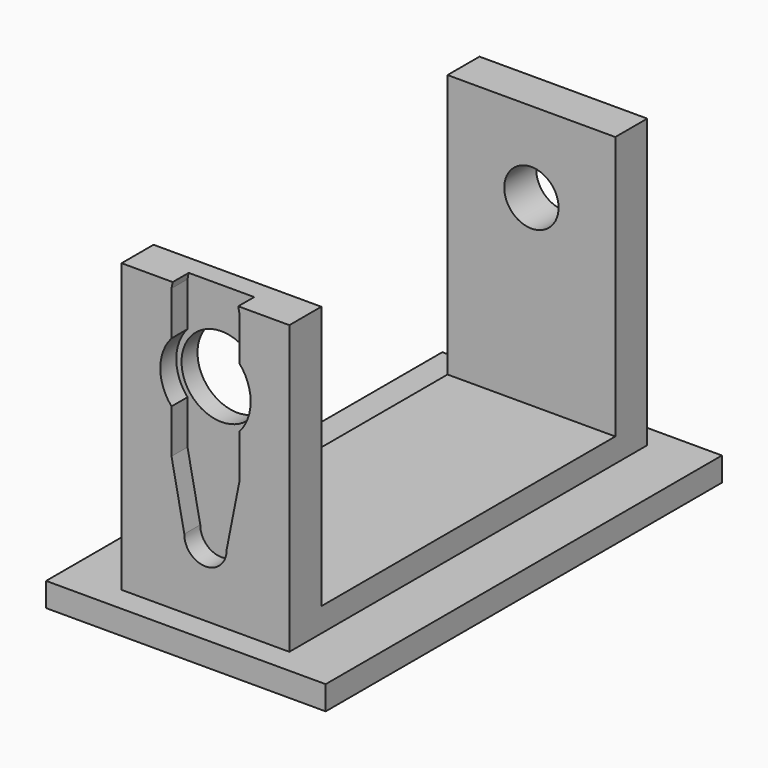
from build123d import *

# Parameters (mm, degrees)
CYLINDER053_R          = 3.4
CYLINDER053_DEPTH      = 44
CYLINDER052_R          = 5
CYLINDER052_DEPTH      = 9
PAD019_DEPTH           = 5
PAD018_DEPTH           = 21
CUT028_PLACEMENT_ANGLE = 90
SKETCH020_W            = 35
SKETCH020_H            = 62
PAD020_DEPTH           = 3


with BuildPart() as cylinder053:
    # Cylinder053 → Cylinder053 (new body)
    with BuildSketch(Plane(origin=(10.5, -10.1, -9), x_dir=(1, 0, 0), z_dir=(0, 0, 1))):
        Circle(CYLINDER053_R)
    extrude(amount=CYLINDER053_DEPTH)


with BuildPart() as cylinder052:
    # Cylinder052 → Cylinder052 (new body)
    with BuildSketch(Plane(origin=(10.5, -10.1, 44), x_dir=(1, 0, 0), z_dir=(0, 0, 1))):
        Circle(CYLINDER052_R)
    extrude(amount=CYLINDER052_DEPTH)


with BuildPart() as fusion043:
    # Sketch019 → Pad019 (new body)
    with BuildSketch(Plane.XY):
        with BuildLine():
            Line((-4.25, 3.75), (-4.25, 9.25))
            Line((-4.25, 9.25), (-2.65, 17.292388))
            ThreePointArc((2.65, 17.292388), (0, 20), (-2.65, 17.292388))
            Line((2.65, 17.292388), (4.25, 9.25))
            Line((4.25, 3.75), (4.25, 9.25))
            ThreePointArc((4.25, -3.75), (5.657274, 0), (4.25, 3.75))
            Line((4.25, -3.75), (4.25, -9.25))
            Line((2.65, -17.292388), (4.25, -9.25))
            ThreePointArc((-2.65, -17.292388), (0, -20), (2.65, -17.292388))
            Line((-4.25, -9.25), (-2.65, -17.292388))
            Line((-4.25, -3.75), (-4.25, -9.25))
            ThreePointArc((-4.25, 3.75), (-5.657274, 0), (-4.25, -3.75))
        make_face()
    extrude(amount=PAD019_DEPTH)


with BuildPart() as fusion043_1:
    # Body019 placement: moved
    add(fusion043.part.moved(Location((10.5, -10, 48))))

    # Fusion043: union Cylinder052
    add(cylinder052.part)


with BuildPart() as obj1:
    # Sketch018 → Pad018 (new body)
    with BuildSketch(Plane.YZ):
        Polygon((-33, -0.5), (0, -0.5), (0, -5.5), (-38, -5.5), (-38, 50.5), (0, 50.5), (0, 45.5), (-33, 45.5), align=None)
    extrude(amount=PAD018_DEPTH)

    # Cut027: cut Fusion043
    add(fusion043_1.part, mode=Mode.SUBTRACT)

    # Cut028: cut Cylinder053
    add(cylinder053.part, mode=Mode.SUBTRACT)


with BuildPart() as obj1_1:
    # Cut028 placement: moved
    add(obj1.part.rotate(Axis((0, 0, 0), (1, 0, 0)), CUT028_PLACEMENT_ANGLE))


with BuildPart() as fusion044:
    # Sketch020 → Pad020 (new body)
    with BuildSketch(Plane.XY):
        with Locations((10.548899, -22.627238)):
            Rectangle(SKETCH020_W, SKETCH020_H)
    extrude(amount=PAD020_DEPTH)


with BuildPart() as fusion044_1:
    # Body020 placement: moved
    add(fusion044.part.moved(Location((0, 0, -39))))

    # Fusion044: union obj1
    add(obj1_1.part)


solid = fusion044_1.part
